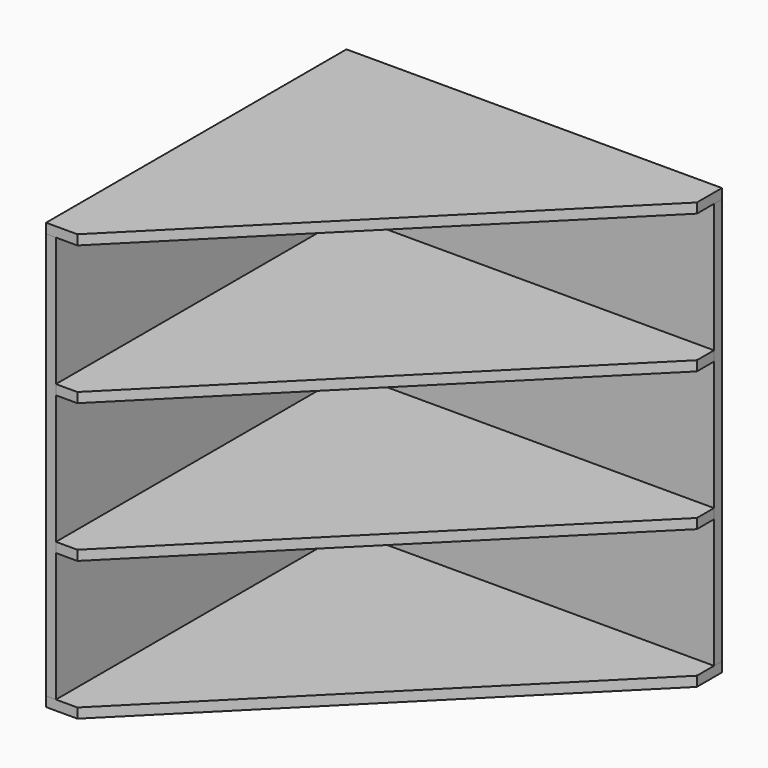
from build123d import *

# Parameters (mm, degrees)
F2_DEPTH = 3.15
F3_W     = 120
F3_H     = 130
F4_DEPTH = 3.15
F6_START = 41.2333333333
F6_DEPTH = 3.15
F8_W     = 116.85
F8_H     = 130
F9_DEPTH = 3.15


with BuildPart() as f2:
    # F1 (on Top) → F2 (new body)
    with BuildSketch(Plane.XY):
        Polygon((0, 120), (0, 0), (10, 0), (120, 110), (120, 120), align=None)
    extrude(amount=F2_DEPTH)


with BuildPart() as f4:
    # F3 (on face) → F4 (new body)
    with BuildSketch(Plane(origin=(0, 0, 0), x_dir=(0, -1, 0), z_dir=(-1, 0, 0))):
        with Locations((-60, 68.15)):
            Rectangle(F3_W, F3_H)
    extrude(amount=-F4_DEPTH)


with BuildPart() as f6:
    # F5 (on face) → F6 (new body)
    with BuildSketch(Plane.XY.offset(3.15).offset(F6_START)):
        Polygon((10, 0), (120, 110), (120, 116.85), (3.15, 116.85), (3.15, 0), align=None)
    extrude(amount=F6_DEPTH)


with BuildPart() as f7_1:
    # F7: copy of F2
    add(f2.part.moved(Location((0, 0, 133.15))))


with BuildPart() as f9:
    # F8 (on face) → F9 (new body)
    with BuildSketch(Plane(origin=(0, 120, 0), x_dir=(-1, 0, 0), z_dir=(0, 1, 0))):
        with Locations((-61.575, 68.15)):
            Rectangle(F8_W, F8_H)
    extrude(amount=-F9_DEPTH)


with BuildPart() as f10_1:
    # F10: copy of F6
    add(f6.part.moved(Location((0, 0, 44.3833333333))))


solid = Compound([f2.part, f4.part, f6.part, f7_1.part, f9.part, f10_1.part])
